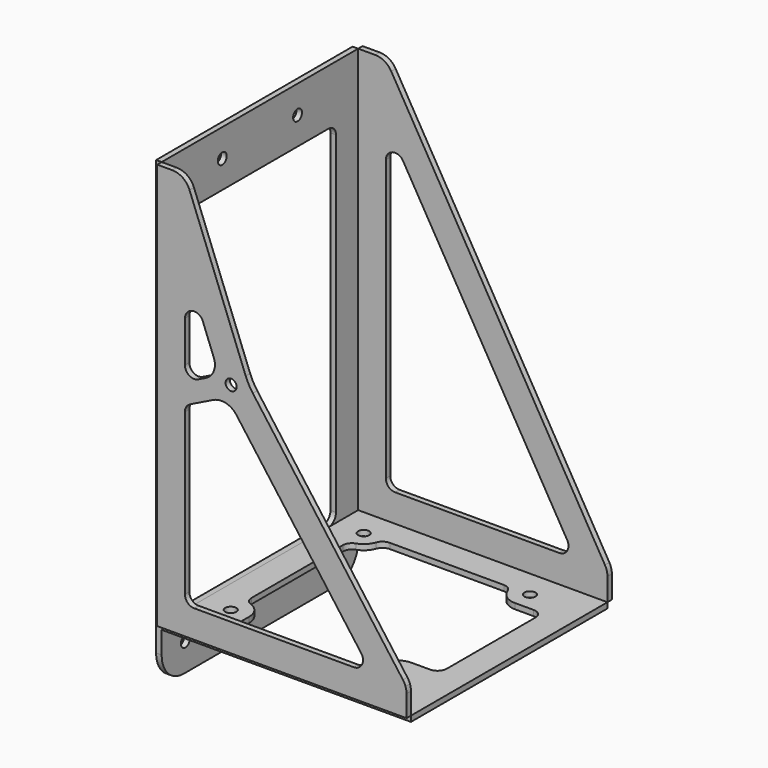
from build123d import *

# Parameters (mm, degrees)
F0_W     = 135
F0_H     = 133
F0_R     = 3
F1_DEPTH = 3
F2_R     = 3
F3_DEPTH = 3
F5_DEPTH = 3
F6_R     = 3
F7_DEPTH = 3


with BuildPart() as f1:
    # F0 (on Top) → F1 (new body)
    with BuildSketch(Plane.XY):
        with Locations((52.5, 38.5)):
            Rectangle(F0_W, F0_H)
        Circle(F0_R, mode=Mode.SUBTRACT)
        with Locations((90, 0)):
            Circle(F0_R, mode=Mode.SUBTRACT)
        with Locations((0, 90)):
            Circle(F0_R, mode=Mode.SUBTRACT)
        with BuildLine():
            ThreePointArc((0, 75.857864), (0.917517, 78.744616), (3.333333, 80.57191))
            ThreePointArc((3.333333, 80.57191), (7.071068, 82.928932), (9.42809, 86.666667))
            ThreePointArc((9.42809, 86.666667), (11.255384, 89.082483), (14.142136, 90))
            Line((14.142136, 90), (75.857864, 90))
            ThreePointArc((75.857864, 90), (78.744616, 89.082483), (80.57191, 86.666667))
            ThreePointArc((80.57191, 86.666667), (84.226497, 81.835034), (90, 80))
            Line((90, 80), (100, 80))
            ThreePointArc((100, 80), (103.535534, 78.535534), (105, 75))
            Line((105, 75), (105, 15))
            ThreePointArc((105, 15), (103.535534, 11.464466), (100, 10))
            Line((100, 10), (90, 10))
            ThreePointArc((90, 10), (82.928932, 7.071068), (80, 0))
            Line((80, 0), (80, -8))
            ThreePointArc((80, -8), (78.535534, -11.535534), (75, -13))
            Line((75, -13), (15, -13))
            ThreePointArc((15, -13), (11.464466, -11.535534), (10, -8))
            Line((10, -8), (10, 0))
            ThreePointArc((10, 0), (8.164966, 5.773503), (3.333333, 9.42809))
            ThreePointArc((3.333333, 9.42809), (0.917517, 11.255384), (0, 14.142136))
            Line((0, 14.142136), (0, 75.857864))
        make_face(mode=Mode.SUBTRACT)
        with Locations((90, 90)):
            Circle(F0_R, mode=Mode.SUBTRACT)
    extrude(amount=F1_DEPTH)


with BuildPart() as f3:
    # F2 (on face) → F3 (new body)
    with BuildSketch(Plane(origin=(-15, 0, 0), x_dir=(0, -1, 0), z_dir=(-1, 0, 0))):
        with BuildLine():
            Line((28, 223), (-105, 223))
            Line((-105, 223), (-105, 3))
            Line((-105, 3), (-105, -12))
            ThreePointArc((-105, -12), (-100.606602, -22.606602), (-90, -27))
            Line((-90, -27), (13, -27))
            ThreePointArc((13, -27), (23.606602, -22.606602), (28, -12))
            Line((28, -12), (28, 3))
            Line((28, 3), (28, 223))
        make_face()
        with Locations((-89, -12)):
            Circle(F2_R, mode=Mode.SUBTRACT)
        with Locations((12, -12)):
            Circle(F2_R, mode=Mode.SUBTRACT)
        with BuildLine():
            Line((8, 3), (-85, 3))
            ThreePointArc((-85, 3), (-88.535534, 4.464466), (-90, 8))
            Line((-90, 8), (-90, 188))
            ThreePointArc((-90, 188), (-88.535534, 191.535534), (-85, 193))
            Line((-85, 193), (8, 193))
            ThreePointArc((8, 193), (11.535534, 191.535534), (13, 188))
            Line((13, 188), (13, 8))
            ThreePointArc((13, 8), (11.535534, 4.464466), (8, 3))
        make_face(mode=Mode.SUBTRACT)
        with Locations((-64, 208)):
            Circle(F2_R, mode=Mode.SUBTRACT)
        with Locations((-13, 208)):
            Circle(F2_R, mode=Mode.SUBTRACT)
    extrude(amount=F3_DEPTH)


with BuildPart() as f5:
    # F4 (on face) → F5 (new body)
    with BuildSketch(Plane(origin=(0, 105, 0), x_dir=(-1, 0, 0), z_dir=(0, 1, 0))):
        with BuildLine():
            Line((-120, 3), (15, 3))
            Line((15, 3), (15, 223))
            Line((15, 223), (5.733633, 223))
            ThreePointArc((5.733633, 223), (0.759596, 221.675192), (-2.896512, 218.051792))
            Line((-2.896512, 218.051792), (-118.630145, 20.340169))
            ThreePointArc((-118.630145, 20.340169), (-119.651462, 17.90549), (-120, 15.288377))
            Line((-120, 15.288377), (-120, 3))
        make_face()
        with BuildLine():
            Line((-5, 18), (-93.898588, 18))
            ThreePointArc((-93.898588, 18), (-98.236184, 20.512982), (-98.213661, 25.525896))
            Line((-98.213661, 25.525896), (-9.315072, 177.394318))
            ThreePointArc((-9.315072, 177.394318), (-3.691444, 179.694153), (0, 174.868422))
            Line((0, 174.868422), (0, 23))
            ThreePointArc((0, 23), (-1.464466, 19.464466), (-5, 18))
        make_face(mode=Mode.SUBTRACT)
    extrude(amount=F5_DEPTH)


with BuildPart() as f7:
    # F6 (on face) → F7 (new body)
    with BuildSketch(Plane.XZ.offset(28)):
        with BuildLine():
            Line((-15, 223), (-15, 3))
            Line((-15, 3), (120, 3))
            Line((120, 3), (120, 14.71041))
            ThreePointArc((120, 14.71041), (119.859879, 16.378579), (119.443442, 18))
            ThreePointArc((119.443442, 18), (118.844842, 19.376112), (118.047055, 20.647151))
            Line((118.047055, 20.647151), (36.758444, 130.831147))
            ThreePointArc((36.758444, 130.831147), (34.603862, 134.200678), (32.916642, 137.826867))
            Line((32.916642, 137.826867), (2.471523, 216.604835))
            ThreePointArc((2.471523, 216.604835), (-1.201416, 221.247677), (-6.856133, 223))
            Line((-6.856133, 223), (-15, 223))
        make_face()
        with BuildLine():
            ThreePointArc((0, 110.029648), (0.755836, 112.672955), (2.794828, 114.517099))
            Line((2.794828, 114.517099), (15.296228, 120.660393))
            ThreePointArc((15.296228, 120.660393), (22.148553, 121.408662), (27.887004, 117.589703))
            Line((27.887004, 117.589703), (95.480948, 25.968371))
            ThreePointArc((95.480948, 25.968371), (95.920707, 20.74632), (91.457421, 18))
            Line((91.457421, 18), (5, 18))
            ThreePointArc((5, 18), (1.464466, 19.464466), (0, 23))
            Line((0, 23), (0, 110.029648))
        make_face(mode=Mode.SUBTRACT)
        with BuildLine():
            Line((11.352975, 129.864827), (7.205172, 127.826561))
            ThreePointArc((7.205172, 127.826561), (2.356693, 128.069849), (0, 132.314013))
            Line((0, 132.314013), (0, 154.581261))
            ThreePointArc((0, 154.581261), (4.08325, 159.4965), (9.663828, 156.383679))
            Line((9.663828, 156.383679), (15.657094, 140.875861))
            ThreePointArc((15.657094, 140.875861), (15.644907, 134.533886), (11.352975, 129.864827))
        make_face(mode=Mode.SUBTRACT)
        with Locations((25, 131)):
            Circle(F6_R, mode=Mode.SUBTRACT)
    extrude(amount=F7_DEPTH)


solid = Compound([f1.part, f3.part, f5.part, f7.part])
